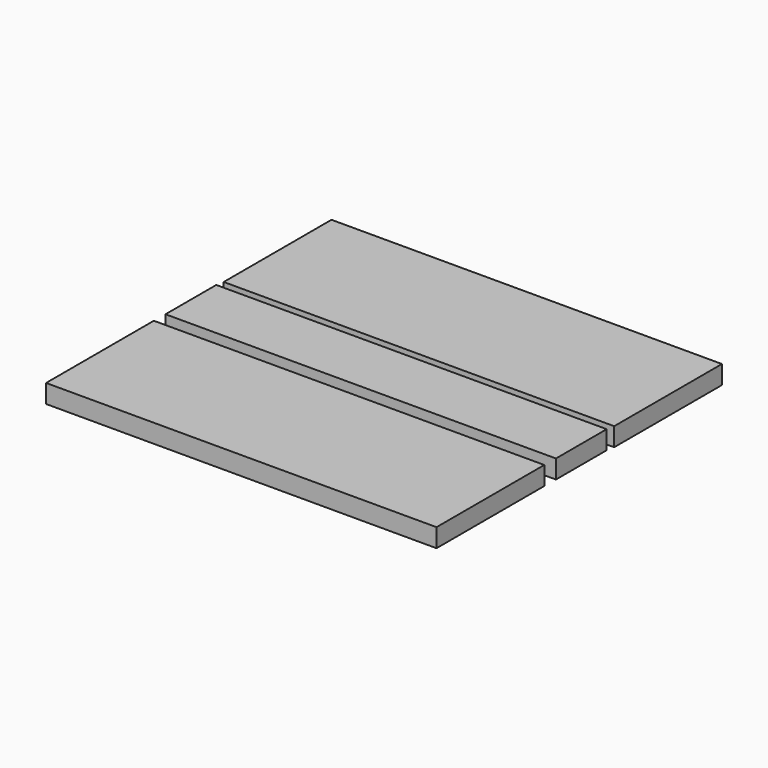
from build123d import *

# Parameters (mm, degrees)
F0_W     = 400
F0_H     = 138
F0_H_2   = 65
F1_DEPTH = 19


with BuildPart() as f1:
    # F0 (on Top) → F1 (new body)
    with BuildSketch(Plane.XY):
        with Locations((-127.881293, 105.967028)):
            Rectangle(F0_W, F0_H)
        with Locations((-129.310836, -3.311432)):
            Rectangle(F0_W, F0_H_2)
        with Locations((-129.559565, -119.424259)):
            Rectangle(F0_W, F0_H)
    extrude(amount=F1_DEPTH)


solid = f1.part
